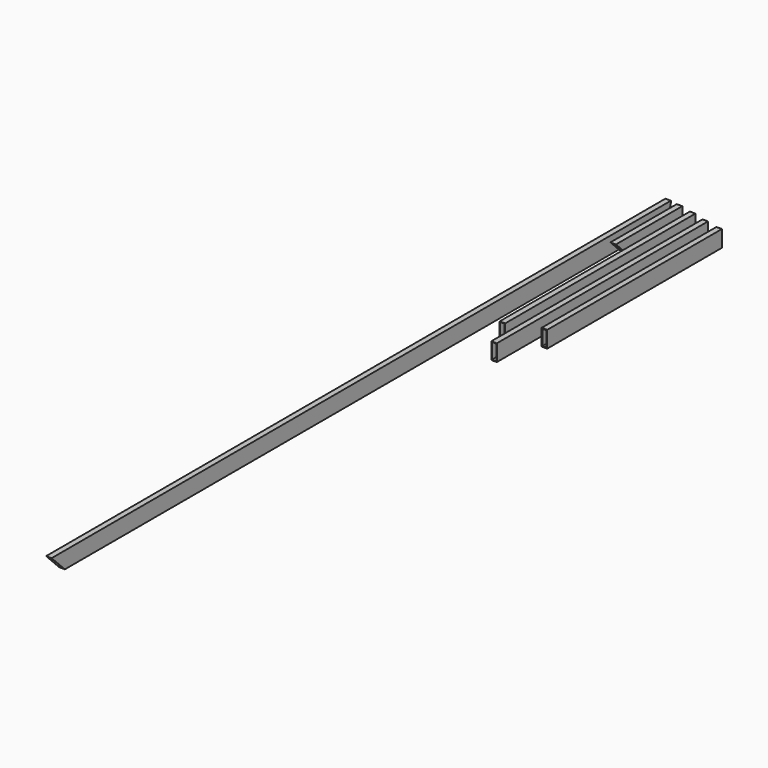
from build123d import *

# Parameters (mm, degrees)
F0_W      = 50.8
F0_H      = 152.4
F0_W_2    = 41.275
F0_H_2    = 142.875
F1_DEPTH  = 7112
F2_W      = 50.8
F2_H      = 210.6431499124
F3_ANGLE  = 90
F5_DEPTH  = 50.801
F6_W      = 50.8
F6_H      = 152.4
F6_W_2    = 38.1
F6_H_2    = 139.7
F7_DEPTH  = 762
F9_DEPTH  = 155.4992832909
F10_W     = 50.8
F10_H     = 152.4
F10_W_2   = 41.275
F10_H_2   = 142.875
F11_DEPTH = 2184.4
F12_W     = 50.8
F12_H     = 152.4
F12_W_2   = 41.275
F12_H_2   = 142.875
F13_DEPTH = 2425.7
F14_W     = 50.8
F14_H     = 152.4
F14_W_2   = 38.1
F14_H_2   = 139.7
F15_DEPTH = 2006.6


with BuildPart() as f1:
    # F0 (on Front) → F1 (new body)
    with BuildSketch(Plane.XZ):
        Rectangle(F0_W, F0_H)
        Rectangle(F0_W_2, F0_H_2, mode=Mode.SUBTRACT)
    extrude(amount=F1_DEPTH)

    # F2 (on face) → F3 (revolve, cut)
    with BuildSketch(Plane.XY.offset(76.2)):
        with Locations((0, 105.3215749562)):
            Rectangle(F2_W, F2_H)
    revolve(axis=Axis((0, -152.4, 76.2), (-1, 0, 0)), revolution_arc=F3_ANGLE, mode=Mode.SUBTRACT)

    # F4 (on face) → F5 (cut, through all)
    with BuildSketch(Plane.YZ.offset(25.4)):
        Polygon((-6959.6, -76.2), (-7112, 76.2), (-7112, -76.2), align=None)
    extrude(amount=-F5_DEPTH, mode=Mode.SUBTRACT)


with BuildPart() as f7:
    # F6 (on Front) → F7 (new body)
    with BuildSketch(Plane.XZ):
        with Locations((104.6982832909, -9.8942993313)):
            Rectangle(F6_W, F6_H)
        with Locations((104.6982832909, -9.8942993313)):
            Rectangle(F6_W_2, F6_H_2, mode=Mode.SUBTRACT)
    extrude(amount=F7_DEPTH)

    # F8 (on face) → F9 (cut, through all)
    with BuildSketch(Plane.YZ.offset(130.0982832909)):
        Polygon((-609.6, -86.0942993313), (-762, 66.3057006687), (-762, -86.0942993313), align=None)
    extrude(amount=-F9_DEPTH, mode=Mode.SUBTRACT)


with BuildPart() as f11:
    # F10 (on Front) → F11 (new body)
    with BuildSketch(Plane.XZ):
        with Locations((225.3219910622, -30.8057749748)):
            Rectangle(F10_W, F10_H)
        with Locations((225.3219910622, -30.8057749748)):
            Rectangle(F10_W_2, F10_H_2, mode=Mode.SUBTRACT)
    extrude(amount=F11_DEPTH)


with BuildPart() as f13:
    # F12 (on Front) → F13 (new body)
    with BuildSketch(Plane.XZ):
        with Locations((341.4777048588, -56.0477459908)):
            Rectangle(F12_W, F12_H)
        with Locations((341.4777048588, -56.0477459908)):
            Rectangle(F12_W_2, F12_H_2, mode=Mode.SUBTRACT)
    extrude(amount=F13_DEPTH)


with BuildPart() as f15:
    # F14 (on Front) → F15 (new body)
    with BuildSketch(Plane.XZ):
        with Locations((468.9760974884, -76.2)):
            Rectangle(F14_W, F14_H)
        with Locations((468.9760974884, -76.2)):
            Rectangle(F14_W_2, F14_H_2, mode=Mode.SUBTRACT)
    extrude(amount=F15_DEPTH)


solid = Compound([f1.part, f7.part, f11.part, f13.part, f15.part])
